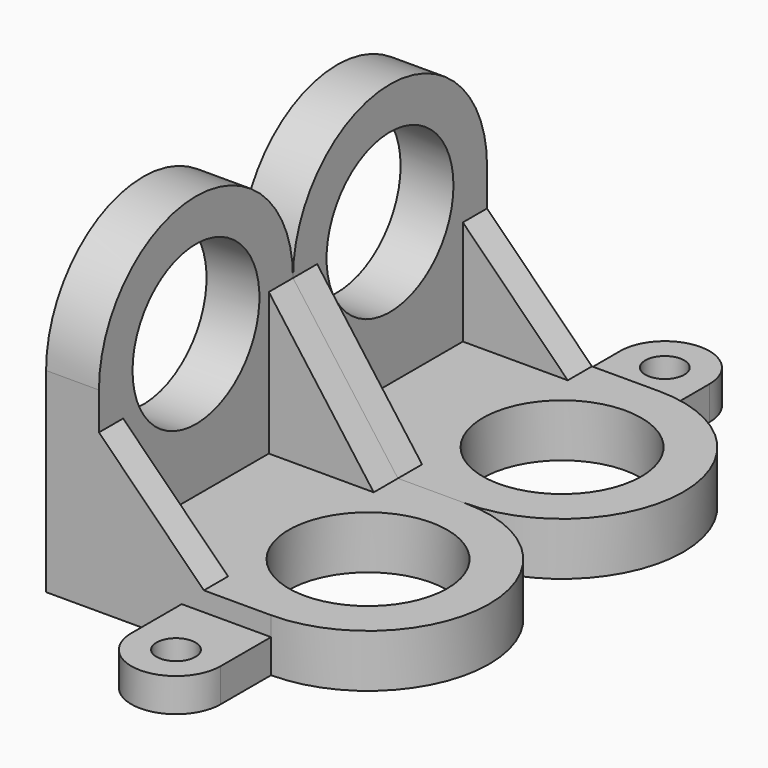
from build123d import *

# Parameters (mm, degrees)
F0_R     = 6
F1_DEPTH = 4
F2_R     = 6
F3_DEPTH = 4
F5_DEPTH = 2.286
F7_DEPTH = 2.286
F8_R     = 1.4732
F9_DEPTH = 2.54


with BuildPart() as f1:
    # F0 (on Top) → F1 (new body)
    with BuildSketch(Plane.XY):
        with BuildLine():
            ThreePointArc((0, -9.175), (9.175, 0), (0, 9.175))
            Line((0, 9.175), (-17.018, 9.175))
            Line((-17.018, 9.175), (-17.018, -9.175))
            Line((-17.018, -9.175), (0, -9.175))
        make_face()
        Circle(F0_R, mode=Mode.SUBTRACT)
    extrude(amount=F1_DEPTH)

    # F2 (on face) → F3 (join)
    with BuildSketch(Plane(origin=(-17.018, 0, 0), x_dir=(0, -1, 0), z_dir=(-1, 0, 0))):
        with BuildLine():
            ThreePointArc((9.175, 14.7625), (0, 23.9375), (-9.175, 14.7625))
            Line((-9.175, 14.7625), (-9.175, 4))
            Line((-9.175, 4), (9.175, 4))
            Line((9.175, 4), (9.175, 14.7625))
        make_face()
        with Locations((0, 14.7625)):
            Circle(F2_R, mode=Mode.SUBTRACT)
    extrude(amount=-F3_DEPTH)

    # F4 (on face) → F5 (join)
    with BuildSketch(Plane.XZ.offset(9.175)):
        Polygon((-5.0805, 4), (-13.018, 11.9375), (-13.018, 4), align=None)
    extrude(amount=-F5_DEPTH)

    # F6 (on face) → F7 (join)
    with BuildSketch(Plane(origin=(0, 9.175, 0), x_dir=(-1, 0, 0), z_dir=(0, 1, 0))):
        Polygon((13.018, 4), (13.018, 14.7625), (5.0805, 4), align=None)
    extrude(amount=-F7_DEPTH)

    # F8 (on face) → F9 (join)
    with BuildSketch(Plane(origin=(0, 0, 0), x_dir=(1, 0, 0), z_dir=(0, 0, -1))):
        with BuildLine():
            ThreePointArc((0, 13.9375), (-3.3782, 17.3157), (-6.7564, 13.9375))
            Line((-6.7564, 13.9375), (-6.7564, 9.175))
            Line((-6.7564, 9.175), (0, 9.175))
            Line((0, 9.175), (0, 13.9375))
        make_face()
        with Locations((-3.3782, 13.9375)):
            Circle(F8_R, mode=Mode.SUBTRACT)
    extrude(amount=-F9_DEPTH)


with BuildPart() as f10_1:
    # F10: instance of F1
    add(f1.part.mirror(Plane(origin=(-10.847828, 9.175, 5.617012), x_dir=(-1, 0, 0), z_dir=(0, 1, 0))))


solid = Compound([f1.part, f10_1.part])
